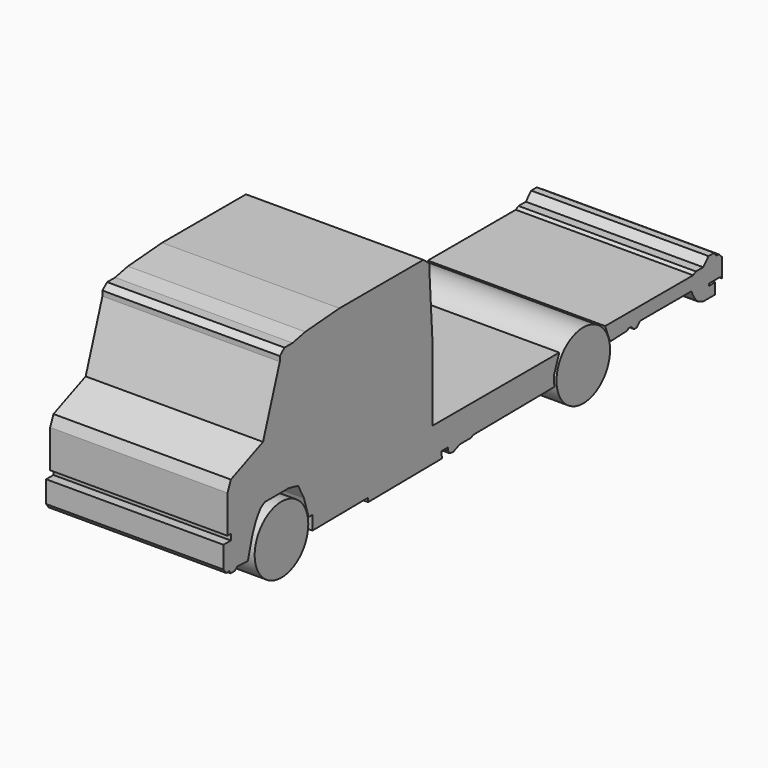
from build123d import *

# Parameters (mm, degrees)
F1_R     = 405.813739
F1_R_2   = 405.560096
F2_DEPTH = 2148
F3_DEPTH = 2148


with BuildPart() as f2:
    # F1 (on Right) → F2 (new body)
    with BuildSketch(Plane.YZ):
        with Locations((-5037.945043, -73.856739)):
            Circle(F1_R)
        with Locations((-469.226141, -73.669252)):
            Circle(F1_R_2)
    extrude(amount=F2_DEPTH)


with BuildPart() as f3:
    # F0 (on Right) → F3 (new body)
    with BuildSketch(Plane.YZ):
        Polygon((-5916.649738, 86.103295), (-5916.649738, -35.756788), (-5876.318, -88.596982), (-5828.305358, -88.596982), (-5808.300264, -120.605177), (-5748.284984, -120.605177), (-5704.273778, -88.596982), (-5684.268685, -88.596982), (-5547.002966, -95.764487), (-5521.161923, 0), (-5482.400775, 141.11002), (-5435.025808, 261.700725), (-5396.26466, 330.609669), (-5348.889692, 395.211808), (-5288.594203, 429.666254), (-4931.129219, 429.666254), (-4844.993104, 412.439031), (-4784.697614, 395.211808), (-4698.561499, 231.553032), (-4626.283299, -0.565466), (-4571.433105, 0), (-4569.695373, -168.560047), (-3906.212071, -161.720012), (-3727.307303, -159.875633), (-3726.809104, -208.200929), (-2611.369809, -196.701554), (-2612.210537, -115.151014), (-2517.24668, -114.172005), (-2516.886935, -149.067322), (-2493.387424, -188.275581), (-2437.496718, -196.701554), (-2339.05249, -155.267758), (-2217.631324, -155.267758), (-2172.131168, -155.267758), (-2131.686887, -137.573319), (-905.714686, -124.934429), (-912.818677, -56.352993), (-912.818677, 0), (-832.652874, 210.86643), (-2748.287256, 210.86643), (-2748.287256, 228.273416), (-2748.287256, 675.093762), (-2748.287256, 1040.674108), (-2799.062109, 1893.69476), (-2799.062109, 1954.624792), (-2839.682199, 1995.244883), (-2890.457261, 2035.864974), (-2971.697442, 2035.864974), (-4159.833373, 2035.864974), (-4677.738746, 1995.244883), (-4870.683812, 1954.624792), (-4921.458873, 1954.624792), (-4992.543875, 1954.624792), (-5063.628877, 1893.69476), (-5063.628877, 1832.764729), (-5317.504183, 1081.294095), (-5804.944854, 878.193954), (-5855.719915, 756.333839), (-5855.719915, 664.938791), (-5855.719915, 299.358471), (-5804.944854, 299.358471), (-5804.944854, 228.273416), (-5916.649738, 228.273416), align=None)
        Polygon((1193.955189, 210.86643), (-137.882473, 210.86643), (-64.518051, 14.988754), (198.433204, 25.563356), (214.493958, 42.627917), (254.568287, 42.627917), (299.860477, 0), (340.641854, 0), (364.701468, 25.563356), (388.938553, 51.315275), (1168.371792, 51.315275), (1190.641318, 0), (1231.782024, -62.94715), (1276.007797, -104.571381), (1342.816479, -130.552484), (1528.395719, -130.552484), (1528.395719, 0), (1431.894476, 0), (1431.894476, 25.563356), (1602.624882, 25.563356), (1629.785965, 0), (1629.785965, 210.86643), (1629.785965, 231.186349), (1580.358015, 277.706744), (1543.242104, 277.706744), (1512.769363, 320.555027), (1427.072771, 320.555027), (1346.417228, 234.858461), (1235.515805, 234.858461), align=None)
    extrude(amount=F3_DEPTH)


solid = Compound([f2.part, f3.part])
